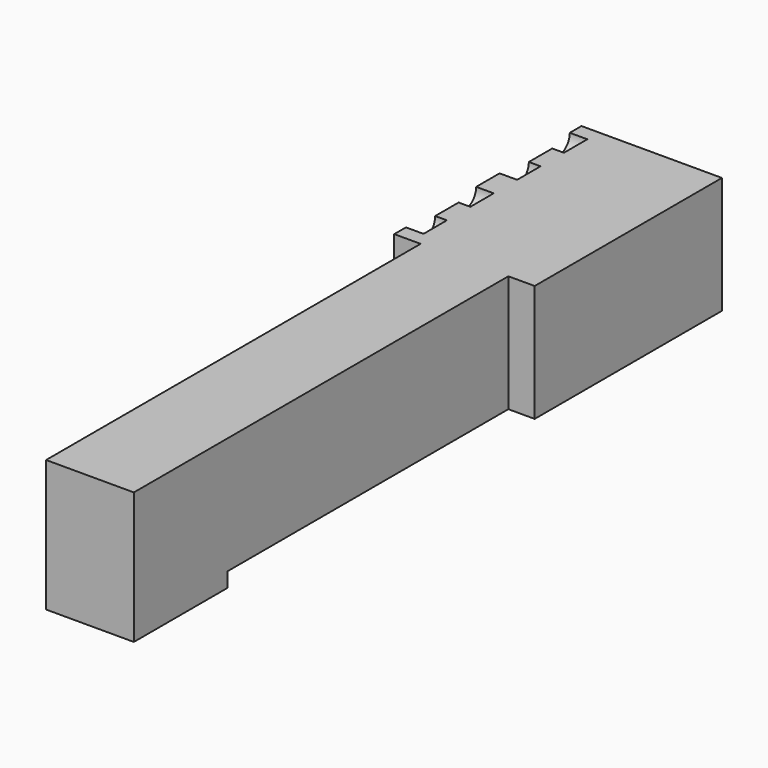
from build123d import *

# Parameters (mm, degrees)
F0_W     = 76.2
F0_H     = 25.4
F1_DEPTH = 9.525
F0_W_2   = 50.8
F2_DEPTH = 15.24
F3_DEPTH = 15.24
F4_DEPTH = 9.525
F6_DEPTH = 1.27
F7_DEPTH = 3.81


with BuildPart() as f1:
    # F0 (on Right) → F1 (new body)
    with BuildSketch(Plane.YZ):
        with Locations((-38.1, 12.7)):
            Rectangle(F0_W, F0_H)
        Polygon((-76.2, -3.175), (-76.2, 0), (-76.2, 25.4), (-101.6, 25.4), (-101.6, -3.175), align=None)
    extrude(amount=F1_DEPTH)

    # F0 (on Right) → F2 (join)
    with BuildSketch(Plane.YZ):
        with Locations((25.4, 12.7)):
            Rectangle(F0_W_2, F0_H)
    extrude(amount=F2_DEPTH)

    # F0 (on Right) → F3 (join)
    with BuildSketch(Plane.YZ):
        with Locations((25.4, 12.7)):
            Rectangle(F0_W_2, F0_H)
    extrude(amount=-F3_DEPTH)

    # F0 (on Right) → F4 (join)
    with BuildSketch(Plane.YZ):
        with Locations((-38.1, 12.7)):
            Rectangle(F0_W, F0_H)
        Polygon((-76.2, -3.175), (-76.2, 0), (-76.2, 25.4), (-101.6, 25.4), (-101.6, -3.175), align=None)
    extrude(amount=-F4_DEPTH)

    # F5 (on face) → F6 (cut)
    with BuildSketch(Plane(origin=(-15.24, 0, 0), x_dir=(0, -1, 0), z_dir=(-1, 0, 0))):
        with BuildLine():
            ThreePointArc((-41.275, 25.4), (-42.204936, 23.154936), (-44.45, 22.225))
            Line((-44.45, 22.225), (-44.45, 12.7))
            Line((-44.45, 12.7), (-42.4688, 12.7))
            Line((-42.4688, 12.7), (-38.8366, 12.7))
            Line((-38.8366, 12.7), (-38.1, 12.7))
            Line((-38.1, 12.7), (-38.1, 25.4))
            Line((-38.1, 25.4), (-41.275, 25.4))
        make_face()
        with BuildLine():
            Line((-38.1, 12.7), (-35.2044, 12.7))
            Line((-35.2044, 12.7), (-31.75, 12.7))
            Line((-31.75, 12.7), (-31.75, 22.225))
            ThreePointArc((-31.75, 22.225), (-33.995064, 23.154936), (-34.925, 25.4))
            Line((-34.925, 25.4), (-38.1, 25.4))
            Line((-38.1, 25.4), (-38.1, 12.7))
        make_face()
        with BuildLine():
            Line((-19.05, 12.7), (-12.7, 12.7))
            Line((-12.7, 12.7), (-12.7, 25.4))
            Line((-12.7, 25.4), (-15.875, 25.4))
            ThreePointArc((-15.875, 25.4), (-16.804936, 23.154936), (-19.05, 22.225))
            Line((-19.05, 22.225), (-19.05, 12.7))
        make_face()
        with BuildLine():
            Line((-6.35, 12.7), (-6.35, 22.225))
            ThreePointArc((-6.35, 22.225), (-8.595064, 23.154936), (-9.525, 25.4))
            Line((-9.525, 25.4), (-12.7, 25.4))
            Line((-12.7, 25.4), (-12.7, 12.7))
            Line((-12.7, 12.7), (-6.35, 12.7))
        make_face()
    extrude(amount=-F6_DEPTH, mode=Mode.SUBTRACT)

    # F5 (on face) → F7 (cut)
    with BuildSketch(Plane(origin=(-15.24, 0, 0), x_dir=(0, -1, 0), z_dir=(-1, 0, 0))):
        with BuildLine():
            Line((-44.45, 25.4), (-47.625, 25.4))
            ThreePointArc((-47.625, 25.4), (-46.695064, 23.154936), (-44.45, 22.225))
            Line((-44.45, 22.225), (-44.45, 25.4))
        make_face()
        with BuildLine():
            Line((-41.275, 25.4), (-44.45, 25.4))
            Line((-44.45, 25.4), (-44.45, 22.225))
            ThreePointArc((-44.45, 22.225), (-42.204936, 23.154936), (-41.275, 25.4))
        make_face()
        with BuildLine():
            ThreePointArc((-34.925, 25.4), (-33.995064, 23.154936), (-31.75, 22.225))
            Line((-31.75, 22.225), (-31.75, 25.4))
            Line((-31.75, 25.4), (-34.925, 25.4))
        make_face()
        with BuildLine():
            ThreePointArc((-31.75, 22.225), (-29.504936, 23.154936), (-28.575, 25.4))
            Line((-28.575, 25.4), (-31.75, 25.4))
            Line((-31.75, 25.4), (-31.75, 22.225))
        make_face()
        with BuildLine():
            ThreePointArc((-22.225, 25.4), (-21.295064, 23.154936), (-19.05, 22.225))
            Line((-19.05, 22.225), (-19.05, 25.4))
            Line((-19.05, 25.4), (-22.225, 25.4))
        make_face()
        with BuildLine():
            ThreePointArc((-19.05, 22.225), (-16.804936, 23.154936), (-15.875, 25.4))
            Line((-15.875, 25.4), (-19.05, 25.4))
            Line((-19.05, 25.4), (-19.05, 22.225))
        make_face()
        with BuildLine():
            Line((-6.35, 22.225), (-6.35, 25.4))
            Line((-6.35, 25.4), (-9.525, 25.4))
            ThreePointArc((-9.525, 25.4), (-8.595064, 23.154936), (-6.35, 22.225))
        make_face()
        with BuildLine():
            ThreePointArc((-6.35, 22.225), (-4.104936, 23.154936), (-3.175, 25.4))
            Line((-3.175, 25.4), (-6.35, 25.4))
            Line((-6.35, 25.4), (-6.35, 22.225))
        make_face()
    extrude(amount=-F7_DEPTH, mode=Mode.SUBTRACT)


solid = f1.part
